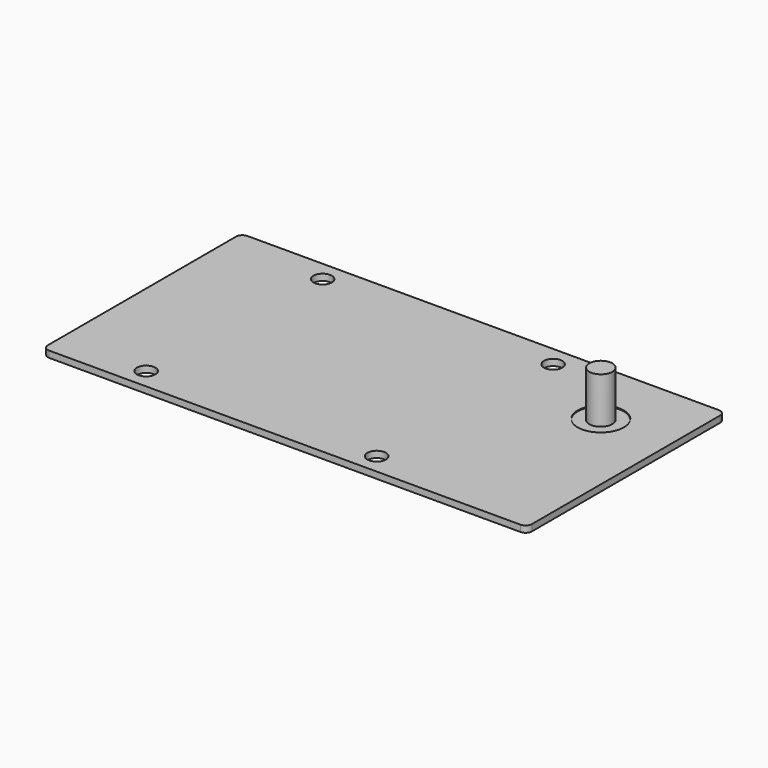
from build123d import *

# Parameters (mm, degrees)
F0_R     = 2.54
F1_DEPTH = 1.524
F2_R     = 2.54
F2_R_2   = 6.35
F3_DEPTH = 0.254
F4_R     = 3.175
F5_DEPTH = 12.7


with BuildPart() as f1:
    # F0 (on Top) → F1 (new body)
    with BuildSketch(Plane.XY):
        with BuildLine():
            ThreePointArc((-18.383103, -12.44771), (-17.862339, -13.704946), (-16.605103, -14.22571))
            Line((-16.605103, -14.22571), (113.188897, -14.22571))
            ThreePointArc((113.188897, -14.22571), (114.446133, -13.704946), (114.966897, -12.44771))
            Line((114.966897, -12.44771), (114.966897, 52.32229))
            ThreePointArc((114.966897, 52.32229), (114.446133, 53.579526), (113.188897, 54.10029))
            Line((113.188897, 54.10029), (-16.605103, 54.10029))
            ThreePointArc((-16.605103, 54.10029), (-17.862339, 53.579526), (-18.383103, 52.32229))
            Line((-18.383103, 52.32229), (-18.383103, -12.44771))
        make_face()
        with Locations((5.623456, -8.63771)):
            Circle(F0_R, mode=Mode.SUBTRACT)
        with Locations((69.123456, -8.63771)):
            Circle(F0_R, mode=Mode.SUBTRACT)
        with Locations((8.518225, 48.51229)):
            Circle(F0_R, mode=Mode.SUBTRACT)
        with Locations((72.018225, 48.51229)):
            Circle(F0_R, mode=Mode.SUBTRACT)
    extrude(amount=F1_DEPTH)

    # F2 (on face) → F3 (join)
    with BuildSketch(Plane.XY.offset(1.524)):
        with BuildLine():
            Line((-18.383103, 52.32229), (-18.383103, -12.44771))
            ThreePointArc((-18.383103, -12.44771), (-17.862339, -13.704946), (-16.605103, -14.22571))
            Line((-16.605103, -14.22571), (113.188897, -14.22571))
            ThreePointArc((113.188897, -14.22571), (114.446133, -13.704946), (114.966897, -12.44771))
            Line((114.966897, -12.44771), (114.966897, 52.32229))
            ThreePointArc((114.966897, 52.32229), (114.446133, 53.579526), (113.188897, 54.10029))
            Line((113.188897, 54.10029), (-16.605103, 54.10029))
            ThreePointArc((-16.605103, 54.10029), (-17.862339, 53.579526), (-18.383103, 52.32229))
        make_face()
        with Locations((5.623456, -8.63771)):
            Circle(F2_R, mode=Mode.SUBTRACT)
        with Locations((69.123456, -8.63771)):
            Circle(F2_R, mode=Mode.SUBTRACT)
        with Locations((8.518225, 48.51229)):
            Circle(F2_R, mode=Mode.SUBTRACT)
        with Locations((95.916897, 35.05029)):
            Circle(F2_R_2, mode=Mode.SUBTRACT)
        with Locations((72.018225, 48.51229)):
            Circle(F2_R, mode=Mode.SUBTRACT)
    extrude(amount=F3_DEPTH)

    # F4 (on face) → F5 (join)
    with BuildSketch(Plane.XY.offset(1.524)):
        with Locations((95.916897, 35.05029)):
            Circle(F4_R)
    extrude(amount=F5_DEPTH)


solid = f1.part
